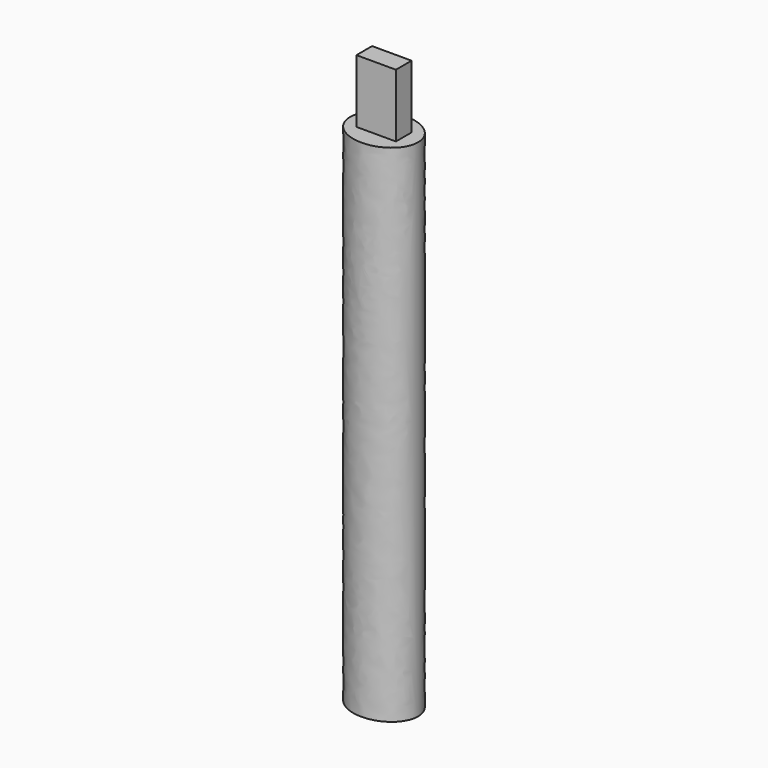
from build123d import *

# Parameters (mm, degrees)
F1_DEPTH = 80
F2_W     = 6.25
F2_H     = 3.1
F3_DEPTH = 10


with BuildPart() as f1:
    # F0 (on Top) → F1 (new body)
    with BuildSketch(Plane.XY):
        with BuildLine():
            add(Edge.make_bspline(
                [(5.4, 0), (5.4, 7.707626), (-2.7, 3.853813), (-10.8, 0), (-2.7, -3.853813), (5.4, -7.707626), (5.4, 0)],
                knots=[0, 0, 0, 2.094395, 2.094395, 4.18879, 4.18879, 6.283185, 6.283185, 6.283185], degree=2, weights=[1, 0.5, 1, 0.5, 1, 0.5, 1]))
        make_face()
    extrude(amount=F1_DEPTH)

    # F2 (on face) → F3 (join)
    with BuildSketch(Plane.XY.offset(80)):
        Rectangle(F2_W, F2_H)
    extrude(amount=F3_DEPTH)


solid = f1.part
